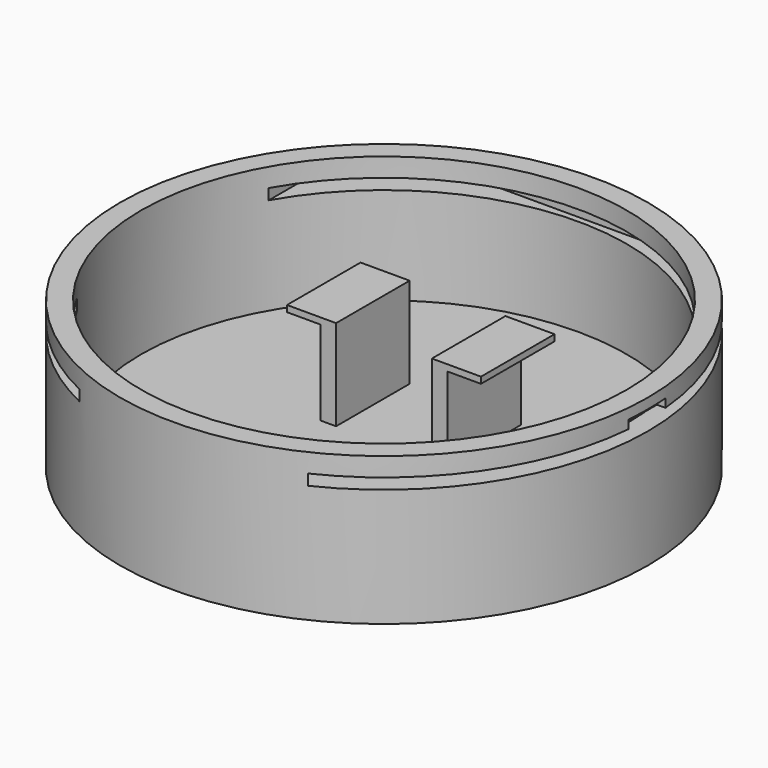
from build123d import *

# Parameters (mm, degrees)
F0_R          = 31.75
F1_DEPTH      = 17.78
F2_T          = -2.54
F3_W          = 1.858536154
F3_H          = 11.058293283
F4_DEPTH      = 10.16
F5_W          = 5.9044365771
F5_H          = 11.058293283
F6_DEPTH      = 0.762
F7_W          = 58.5439018905
F7_H          = 1.300974749
F8_DEPTH      = 43.434
F8_DEPTH_BACK = 25.4
F10_START     = 30.607
F9_W          = 2.780330833
F9_H          = 1.4108410105
F10_DEPTH     = 3.683


with BuildPart() as f1:
    # F0 (on Top) → F1 (new body)
    with BuildSketch(Plane.XY):
        Circle(F0_R)
    extrude(amount=F1_DEPTH)

    # F2
    f2_openings = [f1.faces().sort_by_distance(p)[0] for p in [
        (0, 0, 17.78),
    ]]
    offset(amount=F2_T, openings=f2_openings)

    # F3 (on face) → F4 (join)
    with BuildSketch(Plane.XY.offset(2.54)):
        with Locations((-6.6907317378, 5.5291466415)):
            Rectangle(F3_W, F3_H)
        with Locations((6.6907317378, 5.5291466415)):
            Rectangle(F3_W, F3_H)
    extrude(amount=F4_DEPTH)

    # F5 (on face) → F6 (join)
    with BuildSketch(Plane.XY.offset(12.7)):
        with Locations((-8.7136819493, 5.5291466415)):
            Rectangle(F5_W, F5_H)
        with Locations((8.7136819493, 5.5291466415)):
            Rectangle(F5_W, F5_H)
    extrude(amount=F6_DEPTH)

    # F7 (on Right) → F8 (cut, two sides)
    with BuildSketch(Plane.YZ) as f8_sk:
        with Locations((0.6504878402, 14.8682934232)):
            Rectangle(F7_W, F7_H)
    extrude(amount=F8_DEPTH, mode=Mode.SUBTRACT)
    extrude(f8_sk.sketch, amount=-F8_DEPTH_BACK, mode=Mode.SUBTRACT)

    # F9 (on Right) → F10 (cut)
    with BuildSketch(Plane.YZ.offset(F10_START)):
        with Locations((-1.3901654165, 15.8451446332)):
            Rectangle(F9_W, F9_H)
        with Locations((1.3901654165, 15.8451446332)):
            Rectangle(F9_W, F9_H)
    extrude(amount=F10_DEPTH, mode=Mode.SUBTRACT)


solid = f1.part
